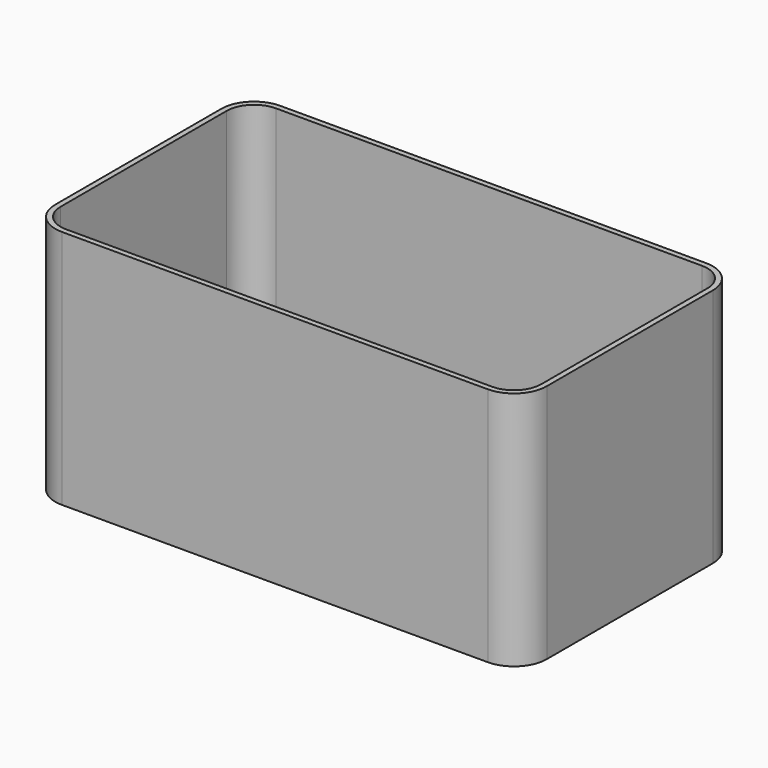
from build123d import *

# Parameters (mm, degrees)
F1_DEPTH = 22
F2_T     = -0.5
F3_R     = 1


with BuildPart() as f1:
    # F0 (on Top) → F1 (new body)
    with BuildSketch(Plane.XY):
        with BuildLine():
            ThreePointArc((0, 3), (0.8786796564, 0.8786796564), (3, 0))
            Line((3, 0), (42, 0))
            ThreePointArc((42, 0), (44.1213203436, 0.8786796564), (45, 3))
            Line((45, 3), (45, 22))
            ThreePointArc((45, 22), (44.1213203436, 24.1213203436), (42, 25))
            Line((42, 25), (3, 25))
            ThreePointArc((3, 25), (0.8786796564, 24.1213203436), (0, 22))
            Line((0, 22), (0, 3))
        make_face()
    extrude(amount=F1_DEPTH)

    # F2
    f2_openings = [f1.faces().sort_by_distance(p)[0] for p in [
        (22.5, 12.5, 22),
    ]]
    offset(amount=F2_T, openings=f2_openings)

    # F3
    f3_edges = [f1.edges().sort_by_distance(p)[0] for p in [
        (0.5, 12.5, 0.5),
        (1.232233, 1.232233, 0.5),
        (22.5, 0.5, 0.5),
        (43.767767, 1.232233, 0.5),
        (44.5, 12.5, 0.5),
        (43.767767, 23.767767, 0.5),
        (22.5, 24.5, 0.5),
        (1.232233, 23.767767, 0.5),
    ]]
    fillet(f3_edges, radius=F3_R)


solid = f1.part
